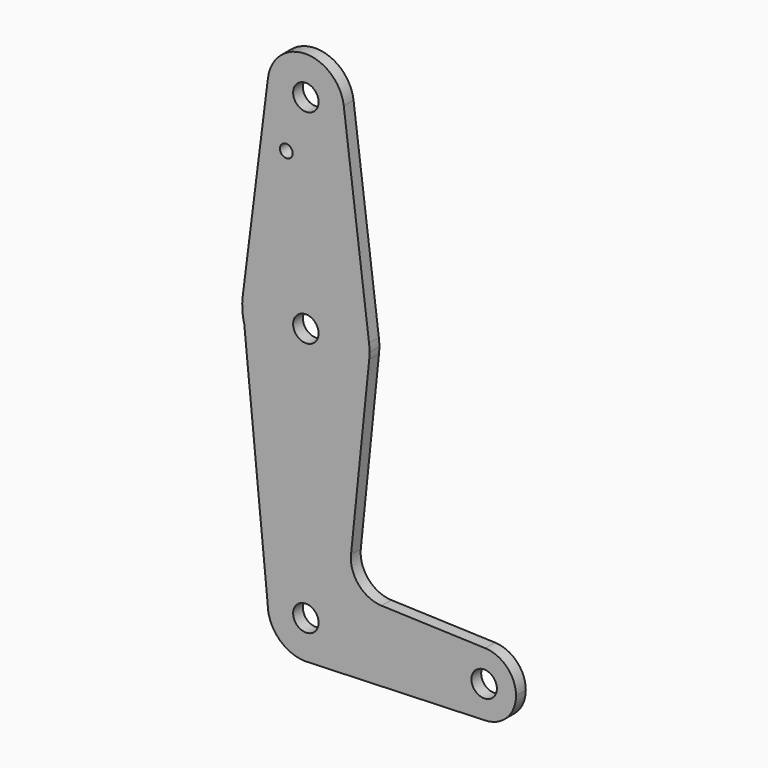
from build123d import *

# Parameters (mm, degrees)
F0_R     = 3.175
F0_R_2   = 1.5875
F1_DEPTH = 3.048


with BuildPart() as f1:
    # F0 (on Front) → F1 (new body)
    with BuildSketch(Plane.XZ):
        with BuildLine():
            ThreePointArc((9.450293, 115.490625), (0, 123.825), (-9.450293, 115.490625))
            ThreePointArc((-9.450293, 115.490625), (-0.596483, 104.793695), (9.525, 114.3))
            ThreePointArc((9.525, 114.3), (9.506305, 114.896483), (9.450293, 115.490625))
        make_face()
        with Locations((0, 114.3)):
            Circle(F0_R, mode=Mode.SUBTRACT)
        with BuildLine():
            Line((-9.450293, 115.490625), (-15.750488, 65.484375))
            ThreePointArc((-15.750488, 65.484375), (0, 79.375), (15.750488, 65.484375))
            Line((15.750488, 65.484375), (9.450293, 115.490625))
            ThreePointArc((9.450293, 115.490625), (9.506305, 114.896483), (9.525, 114.3))
            ThreePointArc((9.525, 114.3), (-0.596483, 104.793695), (-9.450293, 115.490625))
        make_face()
        with Locations((-4.876239, 100.933395)):
            Circle(F0_R_2, mode=Mode.SUBTRACT)
        with BuildLine():
            ThreePointArc((-15.355649, 59.472633), (1.224066, 47.672262), (15.792281, 61.881513))
            ThreePointArc((15.792281, 61.881513), (15.854307, 62.6897), (15.875, 63.5))
            ThreePointArc((15.875, 63.5), (15.843841, 64.494139), (15.750488, 65.484375))
            ThreePointArc((15.750488, 65.484375), (0, 79.375), (-15.750488, 65.484375))
            ThreePointArc((-15.750488, 65.484375), (-15.840871, 62.459602), (-15.355649, 59.472633))
        make_face()
        with Locations((0, 63.5)):
            Circle(F0_R, mode=Mode.SUBTRACT)
        with BuildLine():
            ThreePointArc((44.732405, -7.932475), (36.5125, 0), (44.732405, 7.932475))
            Line((44.732405, 7.932475), (18.880837, 8.85282))
            ThreePointArc((18.880837, 8.85282), (13.168588, 11.576456), (11.25492, 17.608525))
            Line((11.25492, 17.608525), (15.792281, 61.881513))
            ThreePointArc((15.792281, 61.881513), (1.224066, 47.672262), (-15.355649, 59.472633))
            Line((-15.355649, 59.472633), (-9.525, 0))
            ThreePointArc((-9.525, 0), (0, 9.525), (9.525, 0))
            ThreePointArc((9.525, 0), (6.970557, -6.491299), (0.677344, -9.500886))
            Line((0.677344, -9.500886), (44.732405, -7.932475))
        make_face()
        with BuildLine():
            Line((0, -9.525), (0.677344, -9.500886))
            ThreePointArc((0.677344, -9.500886), (6.970557, -6.491299), (9.525, 0))
            ThreePointArc((9.525, 0), (0, 9.525), (-9.525, 0))
            ThreePointArc((-9.525, 0), (-6.735192, -6.735192), (0, -9.525))
        make_face()
        Circle(F0_R, mode=Mode.SUBTRACT)
        with BuildLine():
            ThreePointArc((44.732405, -7.932475), (50.161633, -5.51191), (52.3875, 0))
            ThreePointArc((52.3875, 0), (50.161633, 5.51191), (44.732405, 7.932475))
            ThreePointArc((44.732405, 7.932475), (36.5125, 0), (44.732405, -7.932475))
        make_face()
        with Locations((44.45, 0)):
            Circle(F0_R, mode=Mode.SUBTRACT)
    extrude(amount=F1_DEPTH)


solid = f1.part
